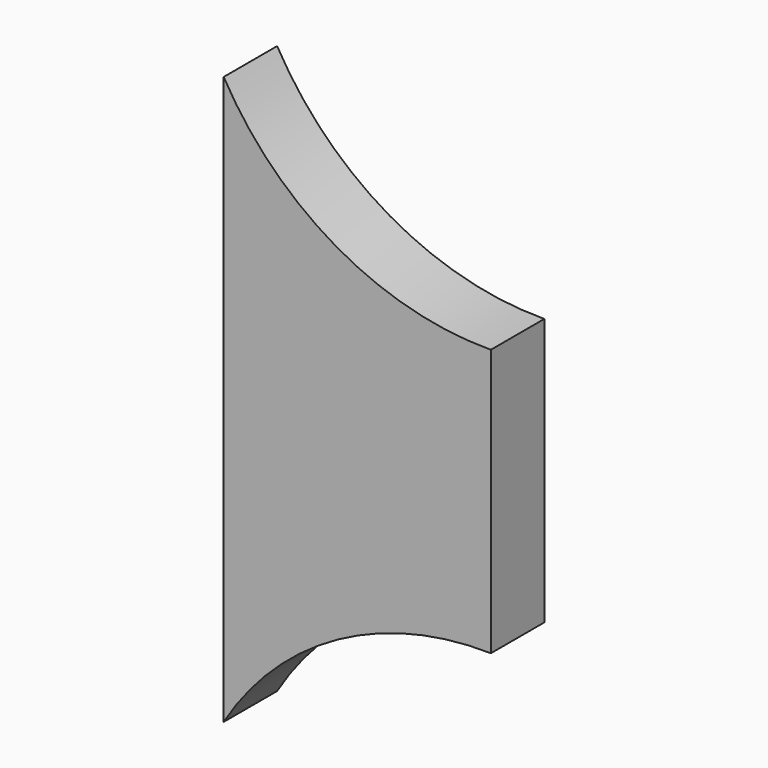
from build123d import *

# Parameters (mm, degrees)
F1_DEPTH = 2


with BuildPart() as f1:
    # F0 (on Front) → F1 (new body)
    with BuildSketch(Plane.XZ):
        with BuildLine():
            Line((0, 17), (0, 8.5))
            Line((0, 8.5), (7.999504, 8.410962))
            Line((7.999504, 8.410962), (7.999504, 12.410962))
            ThreePointArc((7.999504, 12.410962), (3.377405, 13.62062), (0, 17))
        make_face()
        with BuildLine():
            Line((0, 8.5), (0, 0))
            ThreePointArc((0, 0), (3.408102, 3.278469), (7.999504, 4.410962))
            Line((7.999504, 4.410962), (7.999504, 8.410962))
            Line((7.999504, 8.410962), (0, 8.5))
        make_face()
    extrude(amount=F1_DEPTH)


solid = f1.part
